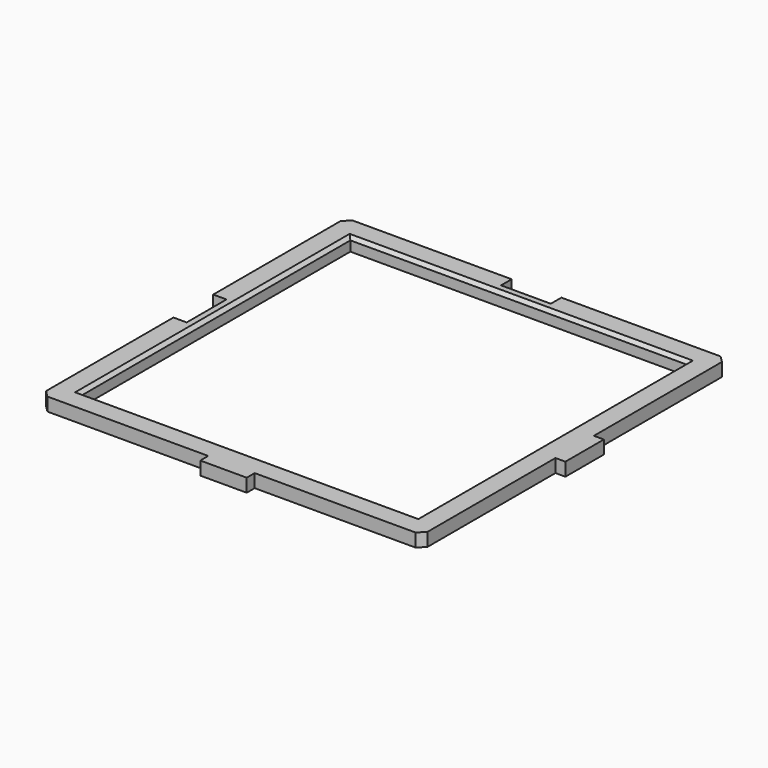
from build123d import *

# Parameters (mm, degrees)
F0_W     = 101.5
F0_H     = 101.5
F1_DEPTH = 4
F2_SIZE  = 2
F3_SIZE  = 1


with BuildPart() as f1:
    # F0 (on Top) → F1 (new body)
    with BuildSketch(Plane.XY):
        Polygon((-7.5, 57.5), (-57.5, 57.5), (-57.5, 7.5), (-53.5, 7.5), (-53.5, -7.5), (-57.5, -7.5), (-57.5, -57.5), (-7, -57.5), (-7, -60.5), (7, -60.5), (7, -57.5), (57.5, -57.5), (57.5, -7.25), (60.5, -7.25), (60.5, 7.25), (57.5, 7.25), (57.5, 57.5), (7.5, 57.5), (7.5, 53.5), (-7.5, 53.5), align=None)
        Rectangle(F0_W, F0_H, mode=Mode.SUBTRACT)
    extrude(amount=F1_DEPTH)

    # F2
    f2_edges = [f1.edges().sort_by_distance(p)[0] for p in [
        (-57.5, -57.5, 2),
        (57.5, -57.5, 2),
        (57.5, 57.5, 2),
        (-57.5, 57.5, 2),
    ]]
    chamfer(f2_edges, length=F2_SIZE)

    # F3
    f3_edges = [f1.edges().sort_by_distance(p)[0] for p in [
        (-50.75, 0, 4),
        (0, 50.75, 4),
        (50.75, 0, 4),
        (0, -50.75, 4),
    ]]
    chamfer(f3_edges, length=F3_SIZE)


solid = f1.part
